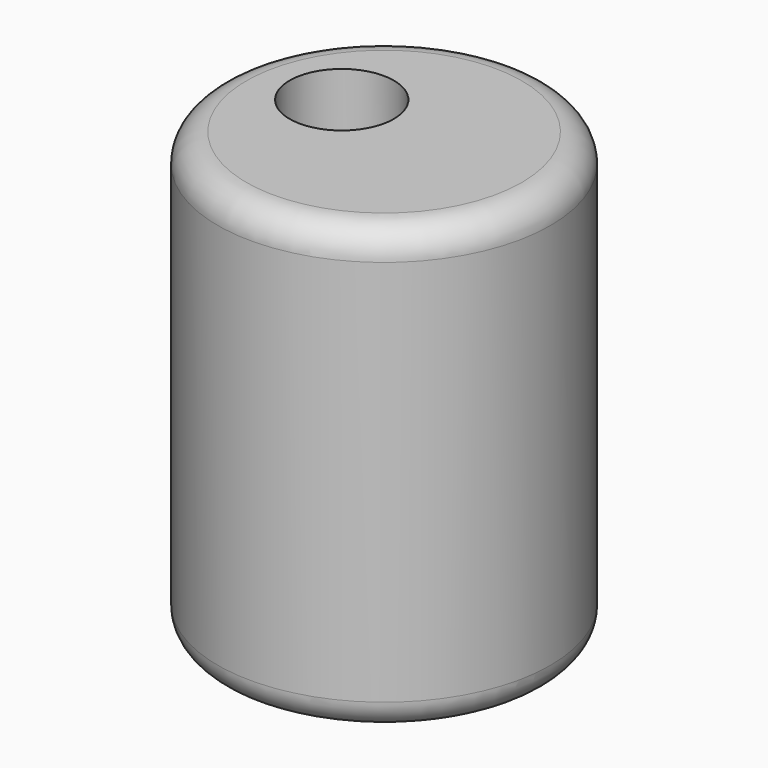
from build123d import *

# Parameters (mm, degrees)
F0_R     = 29.083319
F1_DEPTH = 77.7
F2_R     = 9.110052
F3_DEPTH = 25
F4_R     = 5


with BuildPart() as f1:
    # F0 (on Top) → F1 (new body)
    with BuildSketch(Plane.XY):
        with Locations((0, -3.755013)):
            Circle(F0_R)
    extrude(amount=F1_DEPTH)

    # F2 (on face) → F3 (cut)
    with BuildSketch(Plane.XY.offset(77.7)):
        with Locations((-10.418282, 0)):
            Circle(F2_R)
    extrude(amount=-F3_DEPTH, mode=Mode.SUBTRACT)

    # F4
    f4_edges = [f1.edges().sort_by_distance(p)[0] for p in [
        (-29.083319, -3.755013, 77.7),
        (-29.083319, -3.755013, 0),
    ]]
    fillet(f4_edges, radius=F4_R)


solid = f1.part
